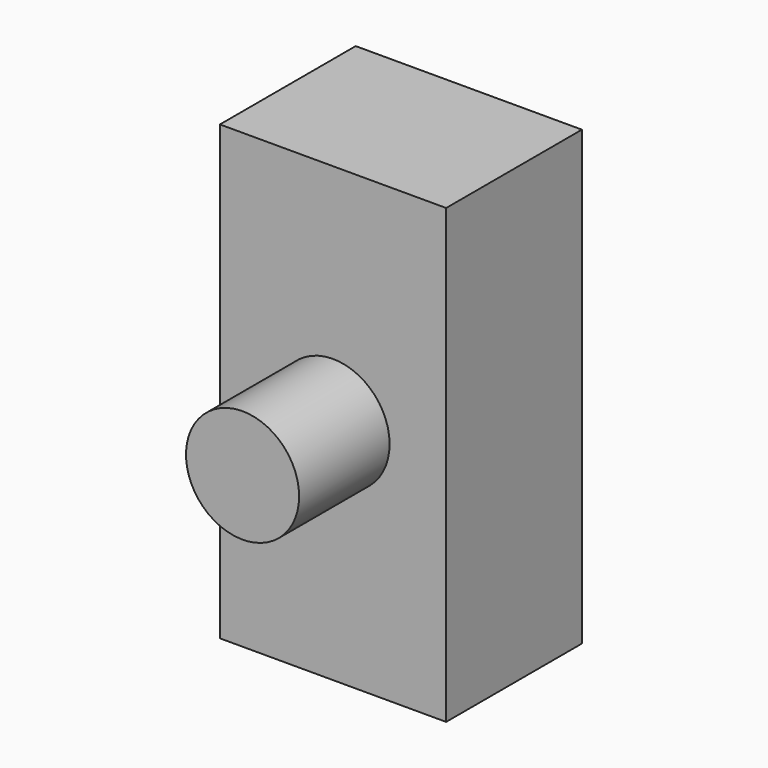
from build123d import *

# Parameters (mm, degrees)
F0_W     = 12.7
F0_H     = 25.4
F1_DEPTH = 4.7625
F2_R     = 3.175
F3_DEPTH = 6.35


with BuildPart() as f1:
    # F0 (on Front) → F1 (new body, symmetric)
    with BuildSketch(Plane.XZ):
        Rectangle(F0_W, F0_H)
    extrude(amount=F1_DEPTH, both=True)

    # F2 (on face) → F3 (join)
    with BuildSketch(Plane.XZ.offset(4.7625)):
        Circle(F2_R)
    extrude(amount=F3_DEPTH)


solid = f1.part
